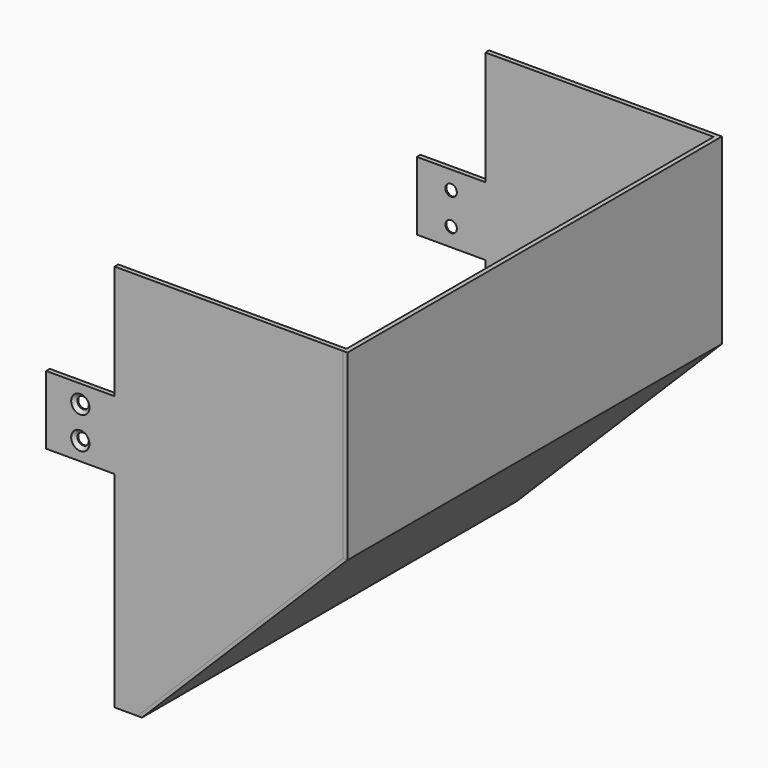
from build123d import *

# Parameters (mm, degrees)
F1_DEPTH       = 2
F3_D           = 5
F3_DEPTH       = 10
F3_CSINK_D     = 8
F3_CSINK_ANGLE = 90
F7_W           = 205
F7_H           = 80
F8_DEPTH       = 2
F10_DEPTH      = 205


with BuildPart() as f1:
    # F0 (on Front) → F1 (new body)
    with BuildSketch(Plane.XZ):
        Polygon((0, 30), (0, 0), (30, 0), (30, -90), (40, -90), (130, 0), (130, 80), (30, 80), (30, 30), align=None)
    extrude(amount=F1_DEPTH)

    # F3
    with Locations(Plane(origin=(0, 0, 0), x_dir=(-1, 0, 0), z_dir=(0, 1, 0))):
        with Locations((-15, 22), (-15, 8)):
            CounterSinkHole(F3_D / 2, F3_CSINK_D / 2, depth=F3_DEPTH, counter_sink_angle=F3_CSINK_ANGLE)


with BuildPart() as f5_1:
    # F5: instance of F1
    add(f1.part.mirror(Plane.XZ.offset(102.5)))


with BuildPart() as f8:
    # F7 (on offset) → F8 (new body)
    with BuildSketch(Plane.YZ.offset(130)):
        with Locations((-102.5, 40)):
            Rectangle(F7_W, F7_H)
    extrude(amount=F8_DEPTH)


with BuildPart() as f10:
    # F9 (on face) → F10 (new body)
    with BuildSketch(Plane.XZ.offset(205)):
        Polygon((132, 0), (130, 0), (40, -90), (42, -90), align=None)
    extrude(amount=-F10_DEPTH)


solid = Compound([f1.part, f5_1.part, f8.part, f10.part])
